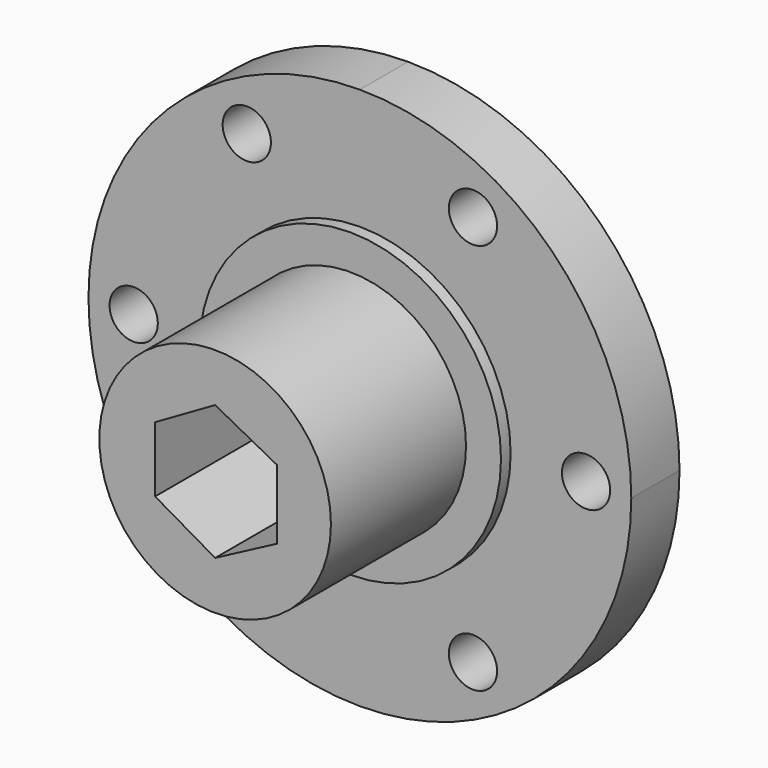
from build123d import *

# Parameters (mm, degrees)
F0_R     = 2.54
F0_R_2   = 15.875
F1_DEPTH = 6.35
F0_R_3   = 12.192
F2_DEPTH = 7.62
F3_DEPTH = 25.4


with BuildPart() as f1:
    # F0 (on Front) → F1 (new body)
    with BuildSketch(Plane.XZ):
        with BuildLine():
            ThreePointArc((28.575, 0), (20.205576, 20.205576), (0, 28.575))
            ThreePointArc((0, 28.575), (-20.205576, 20.205576), (-28.575, 0))
            ThreePointArc((-28.575, 0), (-20.205576, -20.205576), (0, -28.575))
            ThreePointArc((0, -28.575), (20.205576, -20.205576), (28.575, 0))
        make_face()
        with Locations((-11.90625, -20.62223)):
            Circle(F0_R, mode=Mode.SUBTRACT)
        with Locations((11.90625, -20.62223)):
            Circle(F0_R, mode=Mode.SUBTRACT)
        with Locations((-23.8125, 0)):
            Circle(F0_R, mode=Mode.SUBTRACT)
        with Locations((-11.90625, 20.62223)):
            Circle(F0_R, mode=Mode.SUBTRACT)
        Circle(F0_R_2, mode=Mode.SUBTRACT)
        with Locations((23.8125, 0)):
            Circle(F0_R, mode=Mode.SUBTRACT)
        with Locations((11.90625, 20.62223)):
            Circle(F0_R, mode=Mode.SUBTRACT)
    extrude(amount=F1_DEPTH)

    # F0 (on Front) → F2 (join)
    with BuildSketch(Plane.XZ):
        Circle(F0_R_2)
        Circle(F0_R_3, mode=Mode.SUBTRACT)
    extrude(amount=F2_DEPTH)

    # F0 (on Front) → F3 (join)
    with BuildSketch(Plane.XZ):
        Circle(F0_R_3)
        Polygon((0, 7.086949), (6.536717, 3.637514), (6.536717, -3.637514), (0, -7.086949), (-6.315683, -3.440588), (-6.315683, 3.440588), align=None, mode=Mode.SUBTRACT)
    extrude(amount=F3_DEPTH)


solid = f1.part
